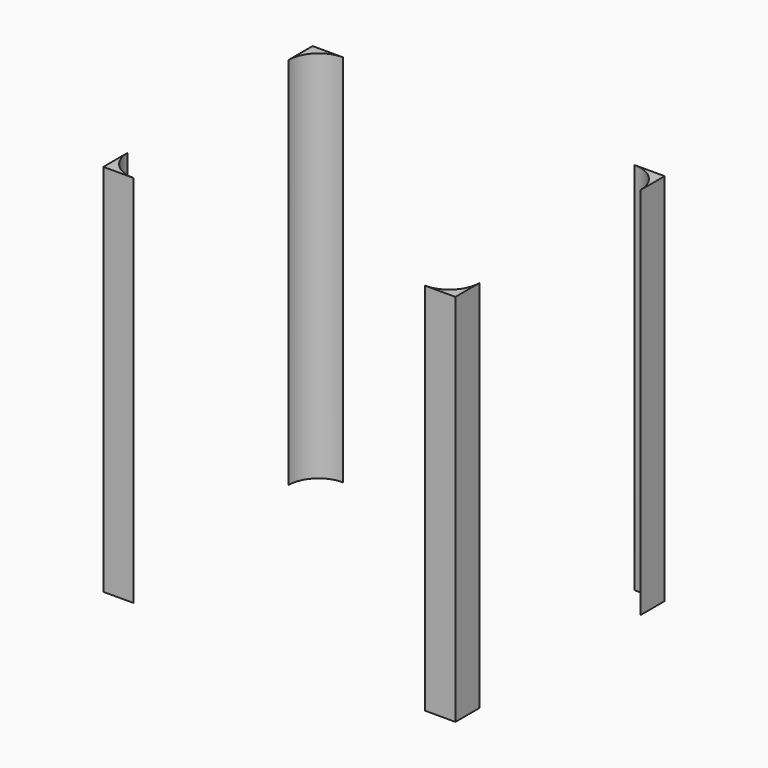
from build123d import *

# Parameters (mm, degrees)
F1_DEPTH = 372


with BuildPart() as f1:
    # F0 (on Top) → F1 (new body)
    with BuildSketch(Plane.XY):
        with BuildLine():
            ThreePointArc((0, 230), (8.786797, 251.213203), (30, 260))
            Line((30, 260), (0, 260))
            Line((0, 260), (0, 230))
        make_face()
        with BuildLine():
            Line((350, 260), (320, 260))
            ThreePointArc((320, 260), (341.213203, 251.213203), (350, 230))
            Line((350, 230), (350, 260))
        make_face()
        with BuildLine():
            Line((350, 0), (350, 30))
            ThreePointArc((350, 30), (341.213203, 8.786797), (320, 0))
            Line((320, 0), (350, 0))
        make_face()
        with BuildLine():
            Line((0, 0), (30, 0))
            ThreePointArc((30, 0), (8.786797, 8.786797), (0, 30))
            Line((0, 30), (0, 0))
        make_face()
    extrude(amount=F1_DEPTH)


solid = f1.part
